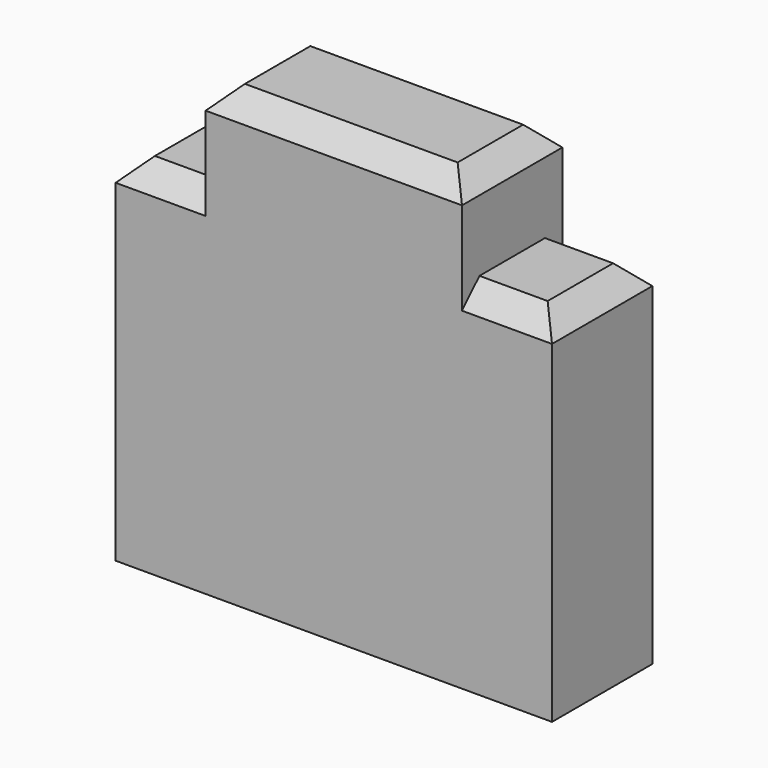
from build123d import *

# Parameters (mm, degrees)
SKETCH008_W     = 4
SKETCH008_H     = 1.15
PAD005_DEPTH    = 4.1
SKETCH009_W     = 0.825
SKETCH009_H     = 0.85
POCKET002_DEPTH = 5
CHAMFER005_SIZE = 0.2


with BuildPart() as part:
    # Sketch008 → Pad005 (new body)
    with BuildSketch(Plane.XY):
        Rectangle(SKETCH008_W, SKETCH008_H)
    extrude(amount=PAD005_DEPTH)

    # Sketch009 (on Face1 of Pad005) → Pocket002 (cut)
    with BuildSketch(Plane(origin=(0, 0.575, 0), x_dir=(-1, 0, 0), z_dir=(0, 1, 0))):
        with Locations((-1.5875, 3.675)):
            Rectangle(SKETCH009_W, SKETCH009_H)
        with Locations((1.5875, 3.675)):
            Rectangle(SKETCH009_W, SKETCH009_H)
    extrude(amount=-POCKET002_DEPTH, mode=Mode.SUBTRACT)

    # Chamfer005
    chamfer005_edges = [part.edges().sort_by_distance(p)[0] for p in [
        (0, 0.575, 4.1),
        (0, -0.575, 4.1),
        (1.5875, 0.575, 3.25),
        (-1.5875, 0.575, 3.25),
        (-1.5875, -0.575, 3.25),
        (1.5875, -0.575, 3.25),
        (2, 0, 3.25),
        (-2, 0, 3.25),
        (1.175, 0, 4.1),
        (-1.175, 0, 4.1),
    ]]
    chamfer(chamfer005_edges, length=CHAMFER005_SIZE)


with BuildPart() as part_1:
    # Body044 placement: moved
    add(part.part.moved(Location((0, 60, 0))))


solid = part_1.part
